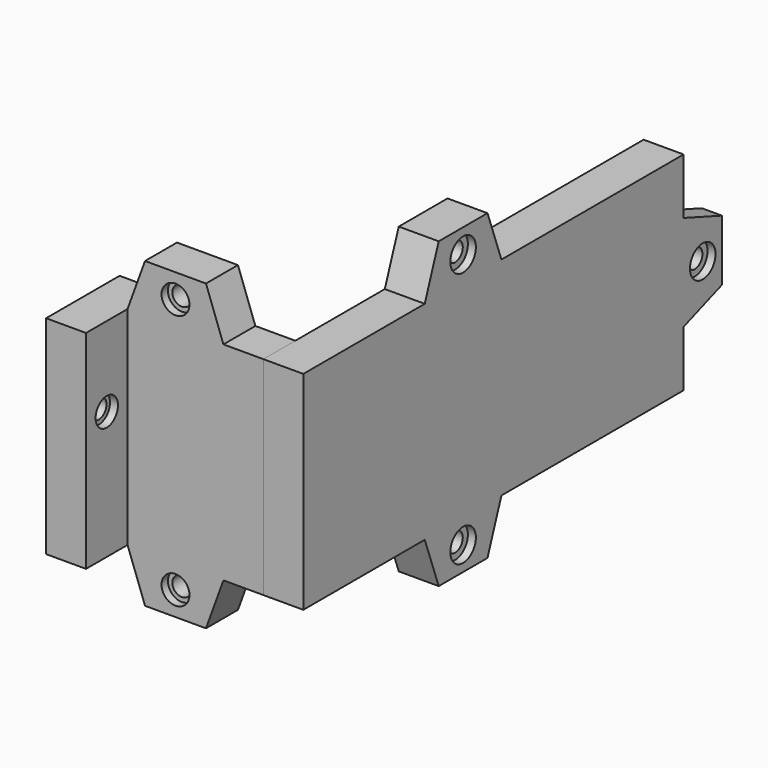
from build123d import *

# Parameters (mm, degrees)
PAD_DEPTH           = 5
HOLE_D              = 2.4
HOLE_DEPTH          = 25
HOLE_CBORE_D        = 4
HOLE_CBORE_DEPTH    = 1
POCKET_DEPTH        = 2.5
SKETCH036_W         = 5
SKETCH036_H         = 26
PAD001_DEPTH        = 22
SKETCH037_W         = 26
SKETCH037_H         = 5
PAD002_DEPTH        = 6.5
HOLE001_D           = 2.4
HOLE001_DEPTH       = 25
HOLE001_CBORE_D     = 3.5
HOLE001_CBORE_DEPTH = 1
PAD003_DEPTH        = 5
HOLE002_D           = 2.4
HOLE002_DEPTH       = 25
HOLE002_CBORE_D     = 3.5
HOLE002_CBORE_DEPTH = 1


with BuildPart() as obj1:
    # Sketch → Pad (new body)
    with BuildSketch(Plane.YZ):
        Polygon((-59.5, 13), (-59.5, -13), (-40.5, -13), (-38.316179, -19), (-30.683821, -19), (-28.5, -13), (0, -13), (0, -6), (6, -3.816179), (6, 3.816179), (0, 6), (0, 13), (-28.5, 13), (-30.683821, 19), (-38.316179, 19), (-40.5, 13), align=None)
    extrude(amount=PAD_DEPTH)

    # Hole
    with Locations(Plane.YZ.offset(5)):
        with Locations((-34.5, 16), (-34.5, -16), (3, 0)):
            CounterBoreHole(HOLE_D / 2, HOLE_CBORE_D / 2, HOLE_CBORE_DEPTH, depth=HOLE_DEPTH)

    # Sketch035 (on Face4 of Hole) → Pocket (cut)
    with BuildSketch(Plane(origin=(0, 0, 0), x_dir=(0, 1, 0), z_dir=(-1, 0, 0))):
        Polygon((0, 6), (0, -6), (6, -3.816179), (6, 3.816179), align=None)
    extrude(amount=-POCKET_DEPTH, mode=Mode.SUBTRACT)


with BuildPart() as obj2:
    # Sketch036 → Pad001 (new body)
    with BuildSketch(Plane.YZ):
        with Locations((-57, 0)):
            Rectangle(SKETCH036_W, SKETCH036_H)
    extrude(amount=-PAD001_DEPTH)

    # Sketch037 (on Face1 of Pad001) → Pad002 (join)
    with BuildSketch(Plane(origin=(0, -59.5, 0), x_dir=(0, 0, -1), z_dir=(0, -1, 0))):
        with Locations((0, -19.5)):
            Rectangle(SKETCH037_W, SKETCH037_H)
    extrude(amount=PAD002_DEPTH)

    # Hole001
    with Locations(Plane.YZ.offset(-17)):
        with Locations((-62.75, 3)):
            CounterBoreHole(HOLE001_D / 2, HOLE001_CBORE_D / 2, HOLE001_CBORE_DEPTH, depth=HOLE001_DEPTH)

    # Sketch040 (on Face1 of Pad001) → Pad003 (join)
    with BuildSketch(Plane(origin=(0, -59.5, 0), x_dir=(0, 0, -1), z_dir=(0, -1, 0))):
        Polygon((13, -17), (19, -14.816179), (19, -7.183821), (13, -5), align=None)
        Polygon((-13, -17), (-19, -14.816179), (-19, -7.183821), (-13, -5), align=None)
    extrude(amount=-PAD003_DEPTH)

    # Hole002
    with Locations(Plane(origin=(0, -59.5, 0), x_dir=(0, 0, -1), z_dir=(0, -1, 0))):
        with Locations((16, -11), (-16, -11)):
            CounterBoreHole(HOLE002_D / 2, HOLE002_CBORE_D / 2, HOLE002_CBORE_DEPTH, depth=HOLE002_DEPTH)


solid = Compound([obj1.part, obj2.part])
